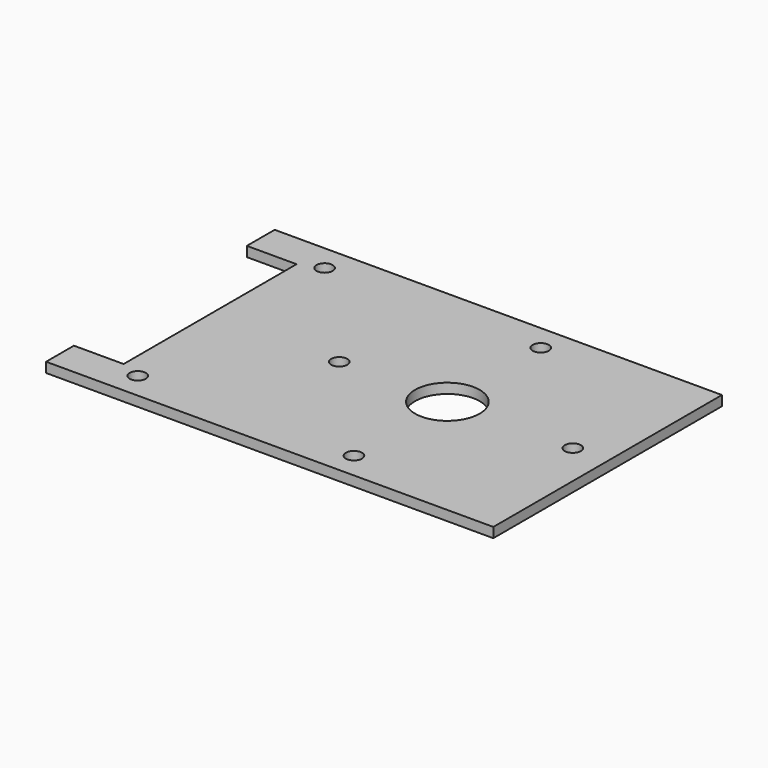
from build123d import *

# Parameters (mm, degrees)
F0_R     = 3.25
F0_R_2   = 13
F1_DEPTH = 4


with BuildPart() as f1:
    # F0 (on Top) → F1 (new body)
    with BuildSketch(Plane.XY):
        Polygon((90, 57.5), (-90, 57.5), (-90, 43.5), (-70, 43.5), (-70, -43.5), (-90, -43.5), (-90, -57.5), (90, -57.5), align=None)
        with Locations((-61.5, -47)):
            Circle(F0_R, mode=Mode.SUBTRACT)
        with Locations((25.5, -47)):
            Circle(F0_R, mode=Mode.SUBTRACT)
        with Locations((-18, 0)):
            Circle(F0_R, mode=Mode.SUBTRACT)
        with Locations((-61.5, 47)):
            Circle(F0_R, mode=Mode.SUBTRACT)
        with Locations((25.5, 0)):
            Circle(F0_R_2, mode=Mode.SUBTRACT)
        with Locations((76, 0)):
            Circle(F0_R, mode=Mode.SUBTRACT)
        with Locations((25.5, 47)):
            Circle(F0_R, mode=Mode.SUBTRACT)
    extrude(amount=F1_DEPTH)


solid = f1.part
